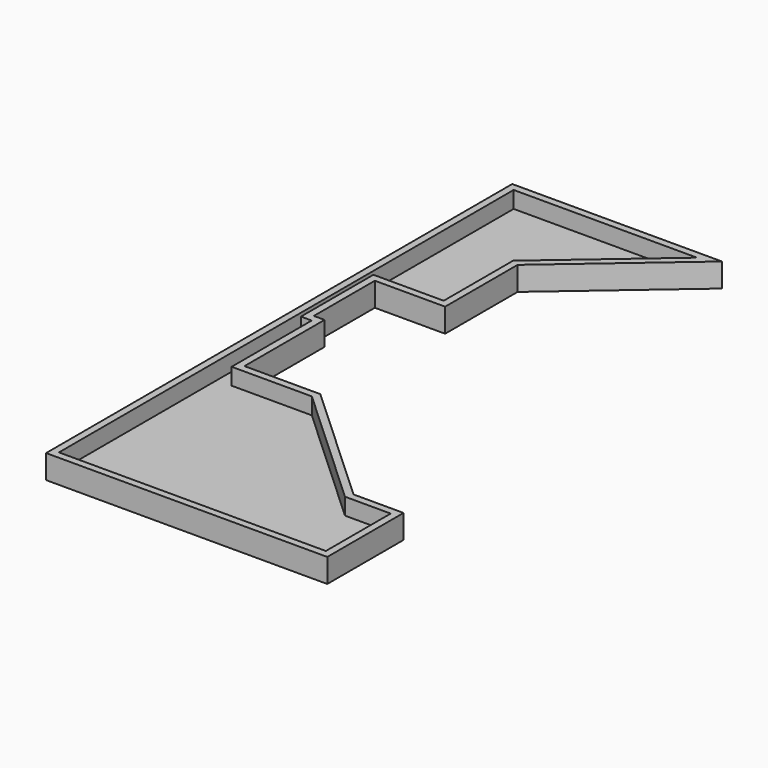
from build123d import *

# Parameters (mm, degrees)
F1_DEPTH = 10
F2_T     = -3


with BuildPart() as f1:
    # F0 (on Top) → F1 (new body)
    with BuildSketch(Plane.XY):
        Polygon((92.7239323163, 155.6199185995), (4.7239323163, 155.6199185995), (4.7239323163, -88.8800814005), (122.7239323163, -88.8800814005), (122.7239323163, -48.8800814005), (101.7239323163, -48.8800814005), (48.7773665856, -0.0880617936), (16.9438924388, -0.0880617936), (16.9438924388, 41.9119382064), (12.4438924388, 41.9119382064), (12.4438924388, 73.9119382064), (41.9438924388, 73.9119382064), (41.9438924388, 111.9119382064), align=None)
    extrude(amount=F1_DEPTH)

    # F2
    f2_openings = [f1.faces().sort_by_distance(p)[0] for p in [
        (65.562857, 135.823545, 10),
    ]]
    offset(amount=F2_T, openings=f2_openings, kind=Kind.INTERSECTION)


solid = f1.part
